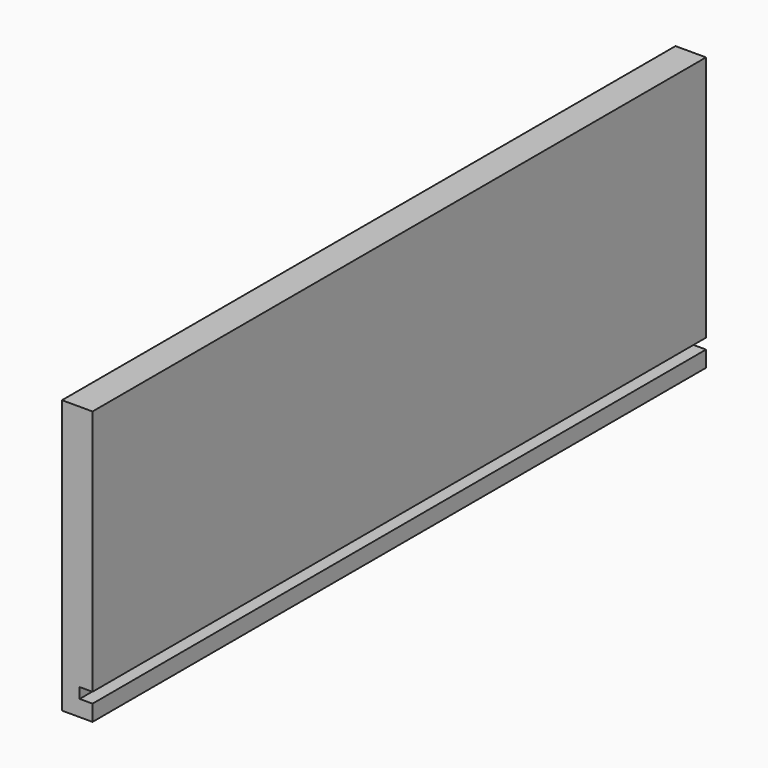
from build123d import *

# Parameters (mm, degrees)
PAD_DEPTH = 477


with BuildPart() as part:
    # Sketch → Pad (new body)
    with BuildSketch(Plane.XZ):
        Polygon((-9.5, -85), (9.5, -85), (9.5, -75), (1.5, -75), (1.5, -68.5), (9.5, -68.5), (9.5, 85), (-9.5, 85), align=None)
    extrude(amount=PAD_DEPTH)


solid = part.part
